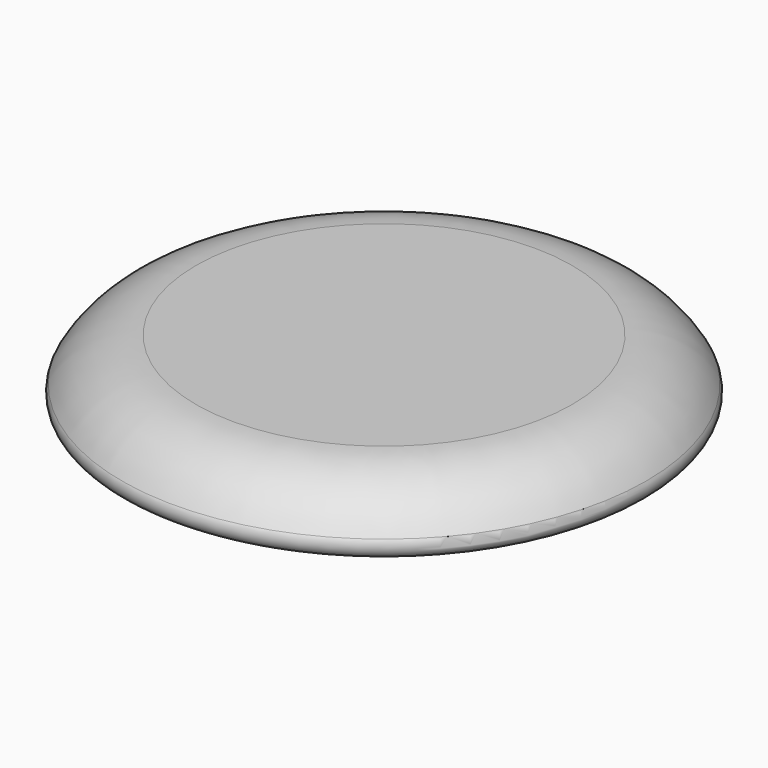
from build123d import *


with BuildPart() as f1:
    # F0 (on Front) → F1 (revolve)
    with BuildSketch(Plane.XZ):
        with BuildLine():
            Line((21, 0), (24, 0))
            Line((24, 0), (24, 1.865))
            Line((24, 1.865), (25.088, 1.865))
            ThreePointArc((25.088, 1.865), (22.102986, 4.890684), (18, 6))
            Line((18, 6), (0, 6))
            Line((0, 6), (0, 4))
            Line((0, 4), (22, 4))
            Line((22, 4), (22, 1))
            Line((22, 1), (21, 1))
            Line((21, 1), (21, 0))
        make_face()
        with BuildLine():
            Line((24, 1.865), (24, 0))
            ThreePointArc((24, 0), (25.07958, 0.620055), (25.088, 1.865))
            Line((25.088, 1.865), (24, 1.865))
        make_face()
    revolve(axis=Axis((0, 0, 5), (0, 0, 1)))


solid = f1.part
